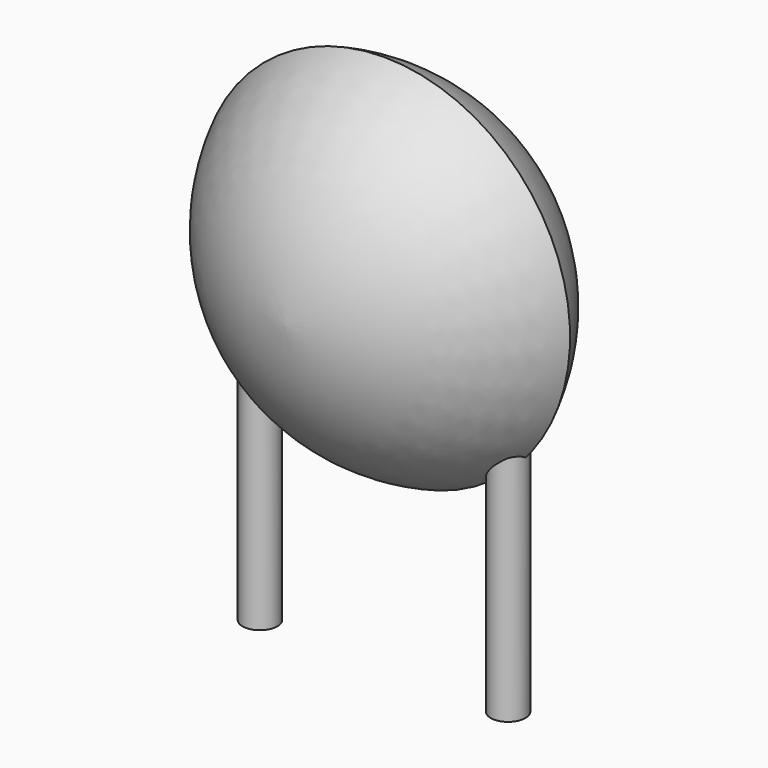
from build123d import *

# Parameters (mm, degrees)
SKETCH001_R       = 0.35
PAD001_DEPTH      = 1.5
PAD001_DEPTH_BACK = 3.2
SKETCH002_R       = 0.35
SKETCH003_R       = 0.35
SKETCH004_R       = 0.35
SKETCH005_R       = 0.35


with BuildPart() as pad001:
    # Sketch001 → Pad001 (new body, two sides)
    with BuildSketch(Plane.XY) as pad001_sk:
        Circle(SKETCH001_R)
        with Locations((5, 0)):
            Circle(SKETCH001_R)
    extrude(amount=PAD001_DEPTH)
    extrude(pad001_sk.sketch, amount=-PAD001_DEPTH_BACK)


with BuildPart() as revolution:
    # Sketch → Revolution (revolve)
    with BuildSketch(Plane.YZ.offset(2.5)):
        with BuildLine():
            Line((-2.5, 3.85), (2.5, 3.85))
            ThreePointArc((0, 0.1), (1.782098, 1.620268), (2.5, 3.85))
            ThreePointArc((-2.5, 3.85), (-1.782098, 1.620268), (0, 0.1))
        make_face()
    revolve(axis=Axis((2.5, -3.32079, 3.85), (0, 1, 0)))


with BuildPart() as loft_body:
    # Sketch002 → Loft section 0
    with BuildSketch(Plane.XY.offset(3.75)):
        with Locations((-0.5, 0)):
            Circle(SKETCH002_R)
    # Sketch003 → Loft section 1
    with BuildSketch(Plane.XY.offset(1.5)):
        Circle(SKETCH003_R)
    loft()


with BuildPart() as loft001:
    # Sketch004 → Loft001 section 0
    with BuildSketch(Plane.XY.offset(1.5)):
        with Locations((5, 0)):
            Circle(SKETCH004_R)
    # Sketch005 → Loft001 section 1
    with BuildSketch(Plane.XY.offset(3.75)):
        with Locations((5.5, 0)):
            Circle(SKETCH005_R)
    loft()


solid = Compound([pad001.part, revolution.part, loft_body.part, loft001.part])
